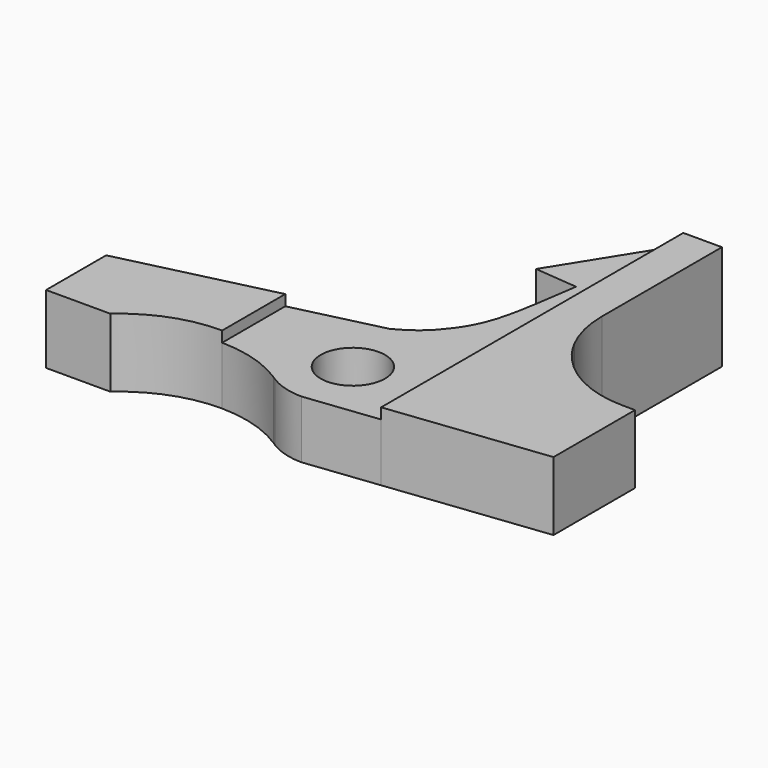
from build123d import *

# Parameters (mm, degrees)
F0_R     = 1.5
F1_DEPTH = 2.7
F2_DEPTH = 3.2
F3_DEPTH = 2.7
F4_DEPTH = 3.2
F5_DEPTH = 1.7
F6_DEPTH = 3.2


with BuildPart() as f1:
    # F0 (on Top) → F1 (new body)
    with BuildSketch(Plane.XY):
        with BuildLine():
            Line((-4.325, 2.1857004834), (-4.325, -1.4937755356))
            ThreePointArc((-4.325, -1.4937755356), (-2.6690400274, -1.7468749135), (-1.1504704305, -2.4541295388))
            ThreePointArc((-1.1504704305, -2.4541295388), (-1.0926241638, -2.4923454544), (-1.0352298419, -2.5312368234))
            ThreePointArc((-1.0352298419, -2.5312368234), (-0.263537277, -2.8804262246), (0.575, -3))
            Line((0.575, -3), (3.975, -2.6046511628))
            Line((3.975, -2.6046511628), (3.975, 4.6964450739))
            Line((3.975, 4.6964450739), (1.5472968315, 4.6964450739))
            add(Edge.make_bspline(
                [(1.5472968315, 4.6964450739), (1.3144459312, 4.3733731641), (0.6967900923, 3.6911224637), (0.1028413655, 3.3605125255), (-0.240789904, 3.1692369025)],
                knots=[0.6540594598, 0.6540594598, 0.6540594598, 0.6540594598, 0.7998547995, 1, 1, 1, 1], degree=3))
            Line((-0.240789904, 3.1692369025), (-4.325, 2.1857004834))
        make_face()
        with Locations((0.575, 0)):
            Circle(F0_R, mode=Mode.SUBTRACT)
    extrude(amount=F1_DEPTH)

    # F0 (on Top) → F2 (join)
    with BuildSketch(Plane.XY):
        with BuildLine():
            Line((-11.325, 0.5), (-11.325, -3))
            Line((-11.325, -3), (-8.325, -3))
            ThreePointArc((-8.325, -3), (-6.4658219239, -1.872914493), (-4.325, -1.4937755356))
            Line((-4.325, -1.4937755356), (-4.325, 2.1857004834))
            Line((-4.325, 2.1857004834), (-11.325, 0.5))
        make_face()
    extrude(amount=F2_DEPTH)

    # F0 (on Top) → F3 (join)
    with BuildSketch(Plane.XY):
        with BuildLine():
            add(Edge.make_bspline(
                [(2.1125420716, 5.6967418641), (2.0793732606, 5.6176202325), (1.9227685724, 5.2694923337), (1.7196807638, 4.9356213286), (1.5472968315, 4.6964450739)],
                knots=[0.5147370924, 0.5147370924, 0.5147370924, 0.5147370924, 0.546124408, 0.6540594598, 0.6540594598, 0.6540594598, 0.6540594598], degree=3))
            Line((1.5472968315, 4.6964450739), (3.975, 4.6964450739))
            Line((3.975, 4.6964450739), (3.975, 5.6967418641))
            Line((3.975, 5.6967418641), (2.1125420716, 5.6967418641))
        make_face()
        with BuildLine():
            add(Edge.make_bspline(
                [(2.975, 10), (2.8586448523, 9.1762784971), (2.6455796583, 7.6679104943), (2.3594416082, 6.2857016012), (2.1125420716, 5.6967418641)],
                knots=[0, 0, 0, 0, 0.2810985188, 0.5147370924, 0.5147370924, 0.5147370924, 0.5147370924], degree=3))
            Line((2.1125420716, 5.6967418641), (3.975, 5.6967418641))
            Line((3.975, 5.6967418641), (3.975, 15))
            Line((3.975, 15), (0.9666787216, 10.1831827385))
            Line((0.9666787216, 10.1831827385), (2.975, 10))
        make_face()
    extrude(amount=F3_DEPTH)

    # F0 (on Top) → F4 (join)
    with BuildSketch(Plane.XY):
        with BuildLine():
            Line((3.975, 15), (3.975, 5.6967418641))
            Line((3.975, 5.6967418641), (6.3370948682, 5.6967418641))
            ThreePointArc((6.3370948682, 5.6967418641), (5.9175559365, 6.8145730008), (5.775, 8))
            Line((5.775, 8), (5.775, 15))
            Line((5.775, 15), (3.975, 15))
        make_face()
        with BuildLine():
            Line((3.975, 5.6967418641), (3.975, 4.6964450739))
            Line((3.975, 4.6964450739), (7.0217980536, 4.6964450739))
            ThreePointArc((7.0217980536, 4.6964450739), (6.6490204546, 5.1757668667), (6.3370948682, 5.6967418641))
            Line((6.3370948682, 5.6967418641), (3.975, 5.6967418641))
        make_face()
        with BuildLine():
            Line((7.0217980536, 4.6964450739), (3.975, 4.6964450739))
            Line((3.975, 4.6964450739), (3.975, -2.6046511628))
            Line((3.975, -2.6046511628), (11.325, -1.75))
            Line((11.325, -1.75), (11.325, 2.9936889187))
            Line((11.325, 2.9936889187), (11.325, 3))
            Line((11.325, 3), (11.3100688905, 3))
            Line((11.3100688905, 3), (10.775, 3))
            ThreePointArc((10.775, 3), (8.7156038058, 3.4438078053), (7.0217980536, 4.6964450739))
        make_face()
    extrude(amount=F4_DEPTH)

    # F0 (on Top) → F5 (join)
    with BuildSketch(Plane.XY):
        with BuildLine():
            Line((3.975, 15), (3.975, 5.6967418641))
            Line((3.975, 5.6967418641), (6.3370948682, 5.6967418641))
            ThreePointArc((6.3370948682, 5.6967418641), (5.9175559365, 6.8145730008), (5.775, 8))
            Line((5.775, 8), (5.775, 15))
            Line((5.775, 15), (3.975, 15))
        make_face()
        with BuildLine():
            add(Edge.make_bspline(
                [(2.975, 10), (2.8586448523, 9.1762784971), (2.6455796583, 7.6679104943), (2.3594416082, 6.2857016012), (2.1125420716, 5.6967418641)],
                knots=[0, 0, 0, 0, 0.2810985188, 0.5147370924, 0.5147370924, 0.5147370924, 0.5147370924], degree=3))
            Line((2.1125420716, 5.6967418641), (3.975, 5.6967418641))
            Line((3.975, 5.6967418641), (3.975, 15))
            Line((3.975, 15), (0.9666787216, 10.1831827385))
            Line((0.9666787216, 10.1831827385), (2.975, 10))
        make_face()
    extrude(amount=-F5_DEPTH)

    # F0 (on Top) → F6 (join)
    with BuildSketch(Plane.XY):
        with BuildLine():
            Line((7.0217980536, 4.6964450739), (3.975, 4.6964450739))
            Line((3.975, 4.6964450739), (3.975, -2.6046511628))
            Line((3.975, -2.6046511628), (11.325, -1.75))
            Line((11.325, -1.75), (11.325, 2.9936889187))
            Line((11.325, 2.9936889187), (11.325, 3))
            Line((11.325, 3), (11.3100688905, 3))
            Line((11.3100688905, 3), (10.775, 3))
            ThreePointArc((10.775, 3), (8.7156038058, 3.4438078053), (7.0217980536, 4.6964450739))
        make_face()
    extrude(amount=F6_DEPTH)


solid = f1.part
